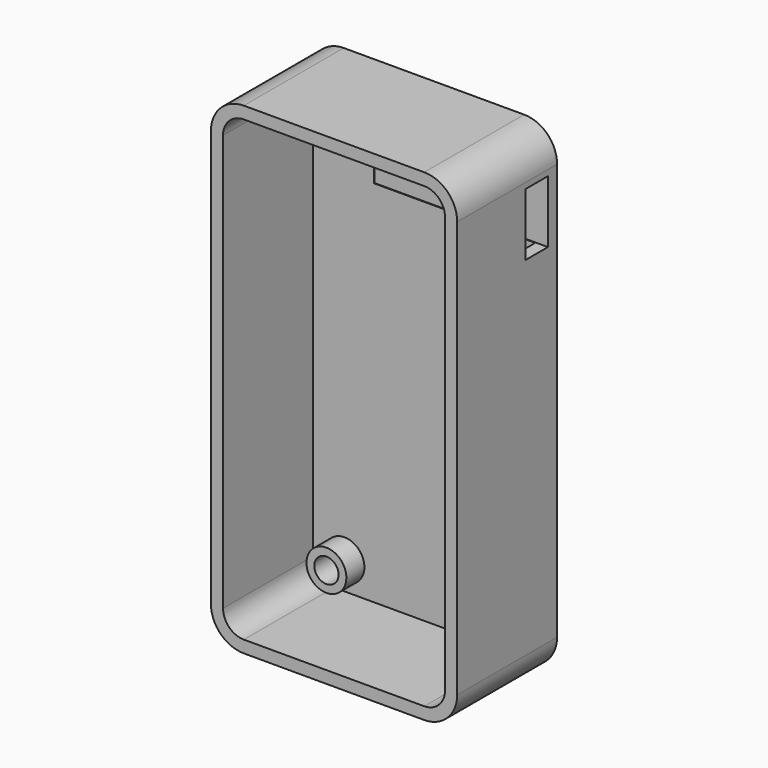
from build123d import *

# Parameters (mm, degrees)
F0_R     = 2.875
F1_DEPTH = 1.75
F2_DEPTH = 18
F0_R_2   = 1.75
F3_DEPTH = 5
F4_W     = 4
F4_H     = 9
F5_DEPTH = 25


with BuildPart() as f1:
    # F0 (on Front) → F1 (new body)
    with BuildSketch(Plane.XZ):
        with BuildLine():
            ThreePointArc((-13, 33), (-15.12132, 32.12132), (-16, 30))
            Line((-16, 30), (-16, -30))
            ThreePointArc((-16, -30), (-15.12132, -32.12132), (-13, -33))
            Line((-13, -33), (13, -33))
            ThreePointArc((13, -33), (15.12132, -32.12132), (16, -30))
            Line((16, -30), (16, 30))
            ThreePointArc((16, 30), (15.12132, 32.12132), (13, 33))
            Line((13, 33), (-13, 33))
        make_face()
        with Locations((-11.5, -29)):
            Circle(F0_R, mode=Mode.SUBTRACT)
        with Locations((11.5, -29)):
            Circle(F0_R, mode=Mode.SUBTRACT)
        with Locations((-11.5, 29)):
            Circle(F0_R, mode=Mode.SUBTRACT)
        with Locations((11.5, 29)):
            Circle(F0_R, mode=Mode.SUBTRACT)
    extrude(amount=F1_DEPTH)

    # F0 (on Front) → F2 (join)
    with BuildSketch(Plane.XZ):
        with BuildLine():
            Line((13, 34.75), (-13, 34.75))
            ThreePointArc((-13, 34.75), (-16.358757, 33.358757), (-17.75, 30))
            Line((-17.75, 30), (-17.75, -30))
            ThreePointArc((-17.75, -30), (-16.358757, -33.358757), (-13, -34.75))
            Line((-13, -34.75), (13, -34.75))
            ThreePointArc((13, -34.75), (16.358757, -33.358757), (17.75, -30))
            Line((17.75, -30), (17.75, 30))
            ThreePointArc((17.75, 30), (16.358757, 33.358757), (13, 34.75))
        make_face()
        with BuildLine():
            Line((-16, -30), (-16, 30))
            ThreePointArc((-16, 30), (-15.12132, 32.12132), (-13, 33))
            Line((-13, 33), (13, 33))
            ThreePointArc((13, 33), (15.12132, 32.12132), (16, 30))
            Line((16, 30), (16, -30))
            ThreePointArc((16, -30), (15.12132, -32.12132), (13, -33))
            Line((13, -33), (-13, -33))
            ThreePointArc((-13, -33), (-15.12132, -32.12132), (-16, -30))
        make_face(mode=Mode.SUBTRACT)
    extrude(amount=F2_DEPTH)

    # F0 (on Front) → F3 (join)
    with BuildSketch(Plane.XZ):
        with Locations((-11.5, 29)):
            Circle(F0_R)
        with Locations((-11.5, 29)):
            Circle(F0_R_2, mode=Mode.SUBTRACT)
        with Locations((11.5, 29)):
            Circle(F0_R)
        with Locations((11.5, 29)):
            Circle(F0_R_2, mode=Mode.SUBTRACT)
        with Locations((11.5, -29)):
            Circle(F0_R)
        with Locations((11.5, -29)):
            Circle(F0_R_2, mode=Mode.SUBTRACT)
        with Locations((-11.5, -29)):
            Circle(F0_R)
        with Locations((-11.5, -29)):
            Circle(F0_R_2, mode=Mode.SUBTRACT)
    extrude(amount=F3_DEPTH)

    # F4 (on face) → F5 (cut)
    with BuildSketch(Plane.YZ.offset(17.75)):
        with Locations((-3.6589, 24.661605)):
            Rectangle(F4_W, F4_H)
    extrude(amount=-F5_DEPTH, mode=Mode.SUBTRACT)


solid = f1.part
